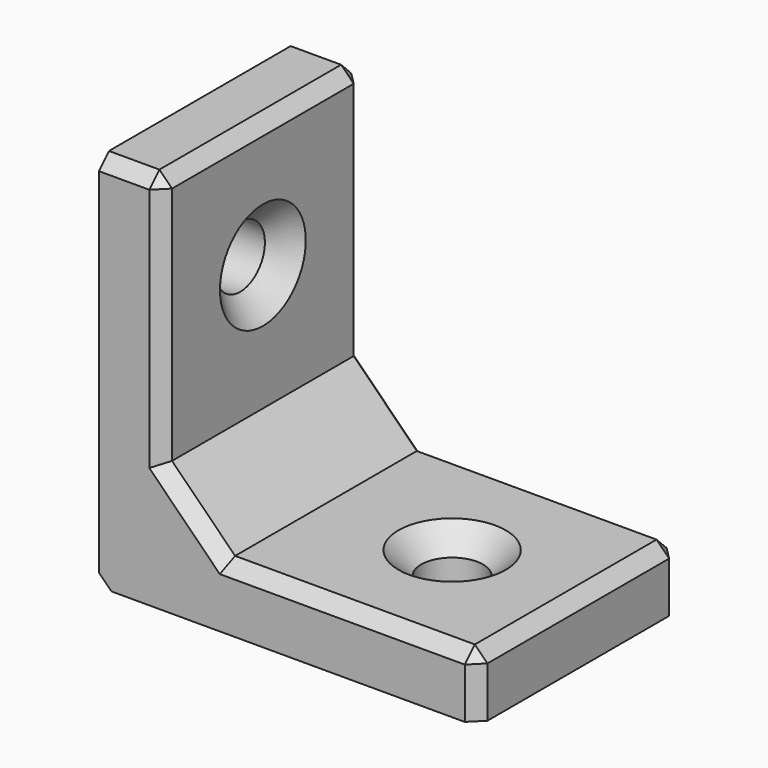
from build123d import *

# Parameters (mm, degrees)
F2_DEPTH             = 20
F3_SIZE              = 5
F6_D                 = 4.9
F6_DEPTH             = 16
F6_CSINK_D           = 8.5
F6_CSINK_ANGLE       = 90
F6_TIP               = 1.4721085166
F6_ON_F4_D           = 4.9
F6_ON_F4_DEPTH       = 16
F6_ON_F4_CSINK_D     = 8.5
F6_ON_F4_CSINK_ANGLE = 90
F6_ON_F4_TIP         = 1.4721085166
F7_SIZE              = 1
F8_SIZE              = 1


with BuildPart() as f2:
    # F1 (on Front) → F2 (new body)
    with BuildSketch(Plane.XZ):
        Polygon((0, 30), (0, 0), (30, 0), (30, 5), (5, 5), (5, 30), align=None)
    extrude(amount=F2_DEPTH)

    # F3
    f3_edges = [f2.edges().sort_by_distance(p)[0] for p in [
        (5, -10, 5),
    ]]
    chamfer(f3_edges, length=F3_SIZE)

    # F6
    with Locations(Plane.YZ.offset(5)):
        with Locations((-10, 20)):
            CounterSinkHole(F6_D / 2, F6_CSINK_D / 2, depth=F6_DEPTH, counter_sink_angle=F6_CSINK_ANGLE)
            with Locations((0, 0, -(F6_DEPTH + F6_TIP / 2))):  # 118° drill point
                Cone(0, F6_D / 2, F6_TIP, mode=Mode.SUBTRACT)

    # F6 on F4
    with Locations(Plane.XY.offset(5)):
        with Locations((20, -10)):
            CounterSinkHole(F6_ON_F4_D / 2, F6_ON_F4_CSINK_D / 2, depth=F6_ON_F4_DEPTH, counter_sink_angle=F6_ON_F4_CSINK_ANGLE)
            with Locations((0, 0, -(F6_ON_F4_DEPTH + F6_ON_F4_TIP / 2))):  # 118° drill point
                Cone(0, F6_ON_F4_D / 2, F6_ON_F4_TIP, mode=Mode.SUBTRACT)

    # F7
    f7_edges = [f2.edges().sort_by_distance(p)[0] for p in [
        (30, -10, 5),
        (5, -10, 30),
        (30, -20, 2.5),
        (20, -20, 5),
        (7.5, -20, 7.5),
        (2.5, -20, 30),
        (30, 0, 2.5),
        (20, 0, 5),
        (7.5, 0, 7.5),
        (2.5, 0, 30),
        (5, -20, 20),
        (5, 0, 20),
    ]]
    chamfer(f7_edges, length=F7_SIZE)

    # F8
    f8_edges = [f2.edges().sort_by_distance(p)[0] for p in [
        (0, -10, 0),
    ]]
    chamfer(f8_edges, length=F8_SIZE)


solid = f2.part
